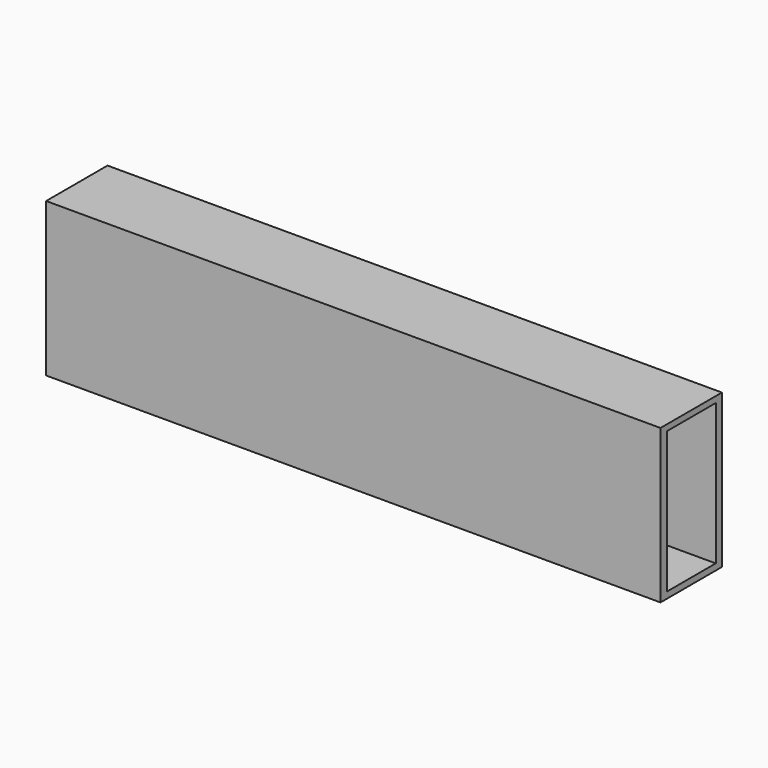
from build123d import *

# Parameters (mm, degrees)
F0_W          = 101.6
F0_H          = 12.7
F1_DEPTH      = 25.4
F2_W          = 10.050139
F2_H          = 23.350151
F3_DEPTH      = 127
F3_DEPTH_BACK = 127


with BuildPart() as f1:
    # F0 (on Top) → F1 (new body)
    with BuildSketch(Plane.XY):
        with Locations((-9.921525, 35.434787)):
            Rectangle(F0_W, F0_H)
    extrude(amount=F1_DEPTH)

    # F2 (on face) → F3 (cut, two sides)
    with BuildSketch(Plane(origin=(-60.721525, 0, 0), x_dir=(0, -1, 0), z_dir=(-1, 0, 0))) as f3_sk:
        with Locations((-35.486013, 12.719347)):
            Rectangle(F2_W, F2_H)
    extrude(amount=-F3_DEPTH, mode=Mode.SUBTRACT)
    extrude(f3_sk.sketch, amount=-F3_DEPTH_BACK, mode=Mode.SUBTRACT)


solid = f1.part
